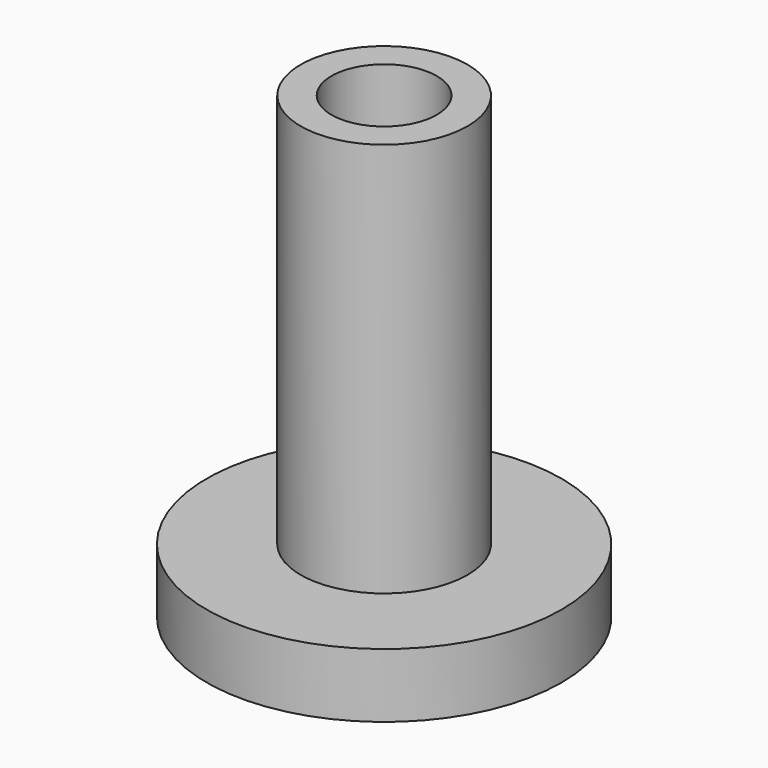
from build123d import *

# Parameters (mm, degrees)
F0_W   = 2.4
F0_H   = 30.767596
F0_W_2 = 4.1
F0_H_2 = 5
F0_W_3 = 7.320878


with BuildPart() as f1:
    # F0 (on Front) → F1 (revolve)
    with BuildSketch(Plane.XZ):
        with Locations((5.3, 20.383798)):
            Rectangle(F0_W, F0_H)
    revolve(axis=Axis((0, 0, 17.953249), (0, 0, -1)))

    # F0 (on Front) → F2 (revolve)
    with BuildSketch(Plane.XZ):
        with Locations((2.05, 2.5)):
            Rectangle(F0_W_2, F0_H_2)
        with Locations((5.3, 2.5)):
            Rectangle(F0_W, F0_H_2)
        with Locations((10.160439, 2.5)):
            Rectangle(F0_W_3, F0_H_2)
    revolve(axis=Axis((0, 0, 2.5), (0, 0, -1)))


solid = f1.part
